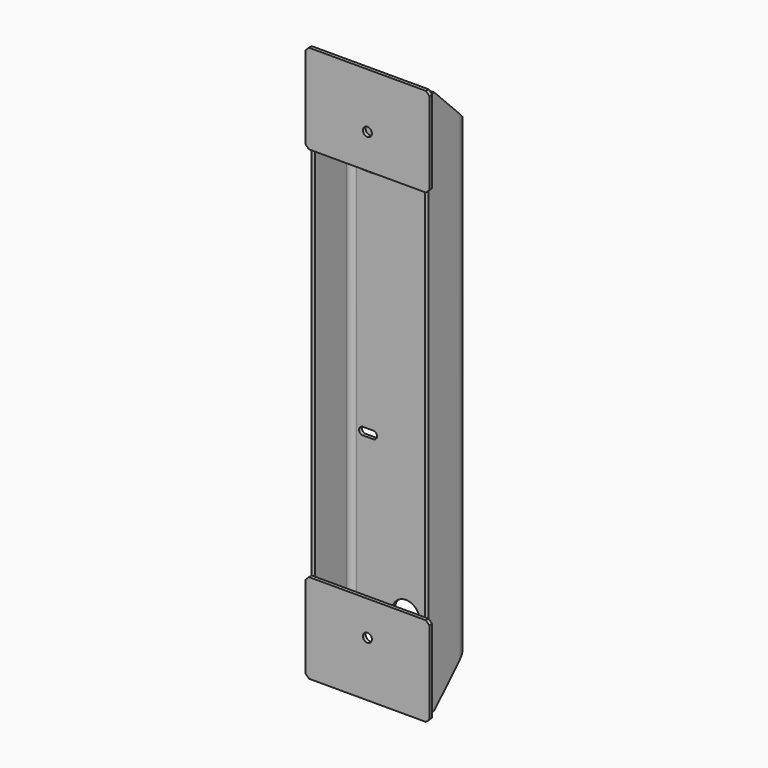
from build123d import *

# Parameters (mm, degrees)
F1_DEPTH  = 395.5
F2_R      = 20
F3_DEPTH  = 70.001
F4_W      = 5
F4_H      = 122
F5_DEPTH  = 5
F6_R      = 6.5
F7_DEPTH  = 75.001
F8_SIZE   = 5
F11_DEPTH = 175.001


with BuildPart() as f1:
    # F0 (on Top) → F1 (new body, symmetric)
    with BuildSketch(Plane.XY):
        with BuildLine():
            Line((-85, 57), (-85, 0))
            Line((-85, 0), (-80, 0))
            Line((-80, 0), (-80, 57))
            ThreePointArc((-80, 57), (-77.6568542495, 62.6568542495), (-72, 65))
            Line((-72, 65), (72, 65))
            ThreePointArc((72, 65), (77.6568542495, 62.6568542495), (80, 57))
            Line((80, 57), (80, 0))
            Line((80, 0), (85, 0))
            Line((85, 0), (85, 57))
            ThreePointArc((85, 57), (81.1923881554, 66.1923881554), (72, 70))
            Line((72, 70), (-72, 70))
            ThreePointArc((-72, 70), (-81.1923881554, 66.1923881554), (-85, 57))
        make_face()
    extrude(amount=F1_DEPTH, both=True)

    # F2 (on face) → F3 (cut, through all)
    with BuildSketch(Plane(origin=(0, 70, 0), x_dir=(-1, 0, 0), z_dir=(0, 1, 0))):
        with Locations((0, -323.5)):
            Circle(F2_R)
        with BuildLine():
            Line((-47.5, -102.5), (-62.5, -102.5))
            ThreePointArc((-62.5, -102.5), (-68, -108), (-62.5, -113.5))
            Line((-62.5, -113.5), (-47.5, -113.5))
            ThreePointArc((-47.5, -113.5), (-42, -108), (-47.5, -102.5))
        make_face()
        with Locations((0, 323.5)):
            Circle(F2_R)
        with BuildLine():
            Line((-47.5, 237.5), (-62.5, 237.5))
            ThreePointArc((-62.5, 237.5), (-68, 232), (-62.5, 226.5))
            Line((-62.5, 226.5), (-47.5, 226.5))
            ThreePointArc((-47.5, 226.5), (-42, 232), (-47.5, 237.5))
        make_face()
        with BuildLine():
            Line((47.5, 226.5), (62.5, 226.5))
            ThreePointArc((62.5, 226.5), (68, 232), (62.5, 237.5))
            Line((62.5, 237.5), (47.5, 237.5))
            ThreePointArc((47.5, 237.5), (42, 232), (47.5, 226.5))
        make_face()
        with BuildLine():
            ThreePointArc((62.5, -113.5), (68, -108), (62.5, -102.5))
            Line((62.5, -102.5), (47.5, -102.5))
            ThreePointArc((47.5, -102.5), (42, -108), (47.5, -113.5))
            Line((47.5, -113.5), (62.5, -113.5))
        make_face()
    extrude(amount=-F3_DEPTH, mode=Mode.SUBTRACT)



with BuildPart() as f5:
    # F4 (on face) → F5 (new body)
    with BuildSketch(Plane.XZ):
        Polygon((-90, -273.5), (-90, -403.5), (90, -403.5), (90, -273.5), (-80, -273.5), (-80, -395.5), (-85, -395.5), (-85, -273.5), align=None)
        with Locations((-82.5, -334.5)):
            Rectangle(F4_W, F4_H)
    extrude(amount=F5_DEPTH)

    # F6 (on face) → F7 (cut, through all)
    with BuildSketch(Plane.XZ.offset(5)):
        with Locations((0, -323.5)):
            Circle(F6_R)
    extrude(amount=-F7_DEPTH, mode=Mode.SUBTRACT)

    # F8
    f8_edges = [f5.edges().sort_by_distance(p)[0] for p in [
        (-90, -2.5, -273.5),
        (90, -2.5, -273.5),
        (-90, -2.5, -403.5),
        (90, -2.5, -403.5),
    ]]
    chamfer(f8_edges, length=F8_SIZE)


with BuildPart() as f1_1:
    add(f1.part)

    add(f5.part)  # F9 merges F5
    # F9: F5 across plane
    add(f5.part.mirror(Plane.XY))

    # F10 (on face) → F11 (cut, through all)
    with BuildSketch(Plane(origin=(-85, 0, 0), x_dir=(0, -1, 0), z_dir=(-1, 0, 0))):
        Polygon((-70, -395.5), (-57, -395.5), (-57, -348.5), (-70, -335.5), align=None)
        Polygon((-57, -395.5), (-10, -395.5), (-57, -348.5), align=None)
        Polygon((-70, 335.5), (-57, 348.5), (-57, 395.5), (-70, 395.5), align=None)
        Polygon((-57, 395.5), (-57, 348.5), (-10, 395.5), align=None)
    extrude(amount=-F11_DEPTH, mode=Mode.SUBTRACT)


solid = f1_1.part
